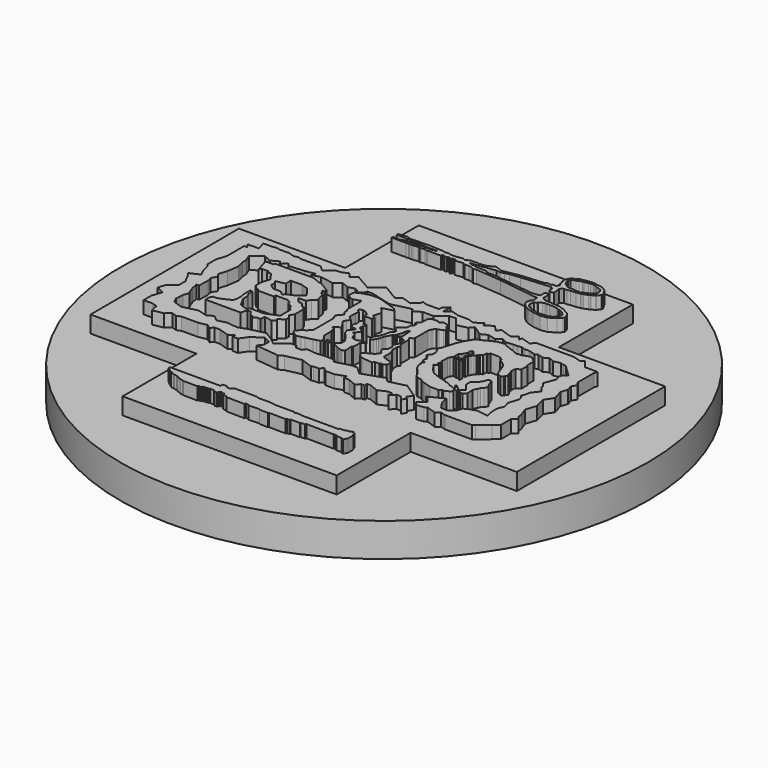
from build123d import *

# Parameters (mm, degrees)
F0_R      = 49.858379
F6_DEPTH  = 6.35
F7_DEPTH  = 9.525
F8_DEPTH  = 11.90625
F9_DEPTH  = 11.90625
F10_DEPTH = 12.7
F11_DEPTH = 11.90625


with BuildPart() as f6:
    # F0 (on Top) → F6 (new body)
    with BuildSketch(Plane.XY):
        Circle(F0_R)
    extrude(amount=F6_DEPTH)


with BuildPart() as f7:
    # F1 (on Top) → F7 (new body)
    with BuildSketch(Plane.XY):
        Polygon((-20.02955, 15.849587), (-40.108074, 15.849587), (-40.048331, -19.246355), (-20.02955, -19.246355), (-20.02955, -36.703989), (20.409739, -36.703989), (20.409739, -19.246355), (40.464565, -19.246355), (40.464565, 15.75925), (20.409739, 15.75925), (20.409739, 33.216882), (-20.02955, 33.216882), align=None)
    extrude(amount=F7_DEPTH)


with BuildPart() as f8:
    # F2 (on Top) → F8 (new body)
    with BuildSketch(Plane.XY):
        Polygon((-16.433874, 25.709664), (-17.835904, 25.579425), (-17.835904, 25.2719), (-16.195767, 25.2719), (-16.195767, 25.125459), (-15.902884, 25.125459), (-15.756443, 25.2719), (-15.258545, 25.2719), (-15.258545, 25.125459), (-12.915492, 25.125459), (-12.798339, 24.993662), (-12.564034, 24.993662), (-12.564034, 25.125459), (-12.271153, 24.993662), (-12.154, 24.993662), (-9.986675, 24.993662), (-9.986675, 24.861865), (-10.338133, 24.861865), (-11.158202, 24.700779), (-11.187481, 24.849837), (-11.410313, 24.806067), (-11.861118, 24.700779), (-11.885709, 24.806067), (-12.028731, 24.772663), (-12.564034, 24.772663), (-12.798339, 24.772663), (-12.798339, 24.539696), (-13.193729, 24.539696), (-13.193729, 24.700779), (-13.428035, 24.700779), (-14.936375, 24.583628), (-15.141392, 24.583628), (-15.127737, 24.407822), (-15.296901, 24.394683), (-15.311577, 24.583628), (-15.57797, 24.562938), (-15.565326, 24.400137), (-15.902884, 24.373919), (-15.919172, 24.583628), (-16.195767, 24.562146), (-16.342208, 24.393255), (-17.865192, 24.393255), (-17.843448, 24.113293), (-15.141392, 24.113293), (-14.667545, 24.150097), (-14.526341, 24.113293), (-14.116307, 24.113293), (-13.843986, 24.134444), (-12.97061, 24.202278), (-12.564034, 24.113293), (-12.388305, 24.202278), (-11.570846, 24.265769), (-11.559003, 24.113293), (-11.286682, 24.134444), (-11.158202, 24.144423), (-8.610132, 24.144423), (-8.610132, 24.422543), (-8.027881, 24.467766), (-8.007261, 24.202278), (-7.588662, 24.23479), (-7.603311, 24.423399), (-6.988415, 24.471158), (-6.962263, 24.134444), (-6.641035, 24.159394), (-6.665249, 24.471158), (-6.105187, 24.514657), (-6.080924, 24.202278), (-4.468711, 24.327497), (-4.099755, 24.113293), (-3.343826, 24.172005), (-2.811076, 24.113293), (-2.252911, 23.789241), (-1.727414, 23.939287), (3.192998, 23.514608), (10.895786, 22.474879), (10.949274, 21.786213), (10.96519, 21.581294), (10.949274, 21.405861), (10.632192, 21.171555), (10.652454, 20.910674), (10.574793, 20.776906), (10.467313, 20.591777), (10.485975, 20.351505), (10.734701, 19.853588), (11.481549, 19.209249), (12.128782, 18.833486), (13.297415, 18.491689), (14.805755, 18.31596), (16.035859, 18.491689), (17.265961, 19.238537), (17.881013, 19.853588), (17.98352, 20.07325), (18.027453, 20.190403), (17.851725, 20.761522), (17.558843, 21.288708), (16.089138, 22.141971), (15.918706, 22.108776), (15.625823, 22.225929), (15.391518, 22.343082), (15.21579, 22.372371), (14.234636, 22.474879), (13.868534, 22.474879), (13.341347, 22.606676), (12.579855, 22.474879), (12.521278, 22.577388), (12.462702, 22.694539), (12.117874, 22.667757), (11.642633, 23.104575), (11.642633, 24.327497), (11.293293, 24.530312), (10.96519, 24.504829), (10.789539, 24.202278), (10.850741, 23.414289), (10.646836, 23.48532), (10.527876, 23.280416), (10.383242, 23.280304), (9.308339, 23.196817), (1.169245, 24.202278), (0.023548, 24.113293), (0, 24.327497), (-0.247448, 24.471158), (-2.082889, 24.583628), (-2.602327, 24.642063), (-2.82191, 24.769546), (-3.171219, 24.742416), (-3.799292, 24.993662), (-2.897099, 25.063734), (-1.608619, 25.184086), (-1.315024, 25.319591), (-0.366485, 25.432512), (0.265875, 25.455097), (0.71756, 25.590602), (1.530593, 25.455097), (2.25329, 25.635771), (3.021155, 25.861613), (4.963401, 26.042288), (10.315872, 26.493972), (10.83531, 26.222961), (10.83531, 25.455097), (11.196658, 25.093749), (11.829017, 25.36476), (11.670928, 26.719816), (11.829017, 26.968243), (11.941939, 27.081164), (12.190365, 27.216669), (12.777556, 27.216669), (13.364747, 27.307006), (14.317393, 27.380997), (15.051953, 27.527051), (15.327323, 27.546043), (15.517234, 27.640998), (16.295865, 27.925864), (16.447794, 28.020818), (16.580731, 28.096782), (17.169453, 28.410135), (17.292894, 28.514585), (17.672716, 28.98936), (17.812764, 29.230586), (17.815148, 29.445145), (17.169453, 30.55612), (17.055508, 30.670067), (16.865598, 30.765023), (16.675688, 30.89796), (16.371831, 31.078374), (16.229399, 31.125851), (15.99201, 31.182826), (15.8021, 31.277779), (15.507739, 31.230303), (15.194387, 31.277779), (14.87154, 31.353746), (14.738603, 31.429708), (13.846025, 31.382229), (13.618132, 31.325258), (13.295284, 31.306267), (13.067393, 31.306267), (12.725554, 31.17333), (12.393211, 31.135347), (12.165319, 31.116355), (11.52912, 30.717544), (11.206272, 30.584607), (11.073335, 30.508643), (10.731497, 30.119328), (10.560577, 29.767994), (10.446631, 29.52111), (10.456127, 29.359687), (10.522595, 29.217254), (10.560577, 29.008353), (10.522595, 28.818442), (10.722001, 28.552568), (10.78847, 27.954351), (11.063839, 27.726458), (11.092326, 27.640998), (10.674523, 27.194709), (10.066811, 27.223196), (9.990847, 27.080763), (9.126755, 27.080763), (8.936845, 26.900349), (4.28194, 26.493972), (4.268707, 26.471179), (4.154336, 26.471179), (4.239479, 26.488147), (4.268707, 26.493972), (1.362524, 25.958089), (0, 26.471179), (-1.234666, 25.822584), (-2.589722, 25.641909), (-2.973654, 25.732247), (-3.69635, 25.641909), (-4.238373, 25.687078), (-4.96107, 25.2719), (-5.503092, 25.506405), (-6.451631, 25.32573), (-6.948485, 25.280563), (-7.671181, 25.280563), (-8.009945, 25.461236), (-8.303541, 25.461236), (-8.484215, 25.416069), (-8.9359, 25.3709), (-9.297248, 25.506405), (-11.917023, 25.641909), (-15.756443, 25.506405), (-15.756443, 25.641909), (-16.343538, 25.822585), align=None)
        Polygon((11.308922, 20.474901), (11.334626, 20.62683), (11.46085, 21.016147), (11.726725, 21.291517), (11.84067, 21.177569), (11.973608, 21.405462), (12.486366, 21.7473), (12.913664, 21.851752), (13.340962, 21.823265), (13.701791, 21.899229), (15.221073, 21.7473), (15.373002, 21.671336), (15.714839, 21.509914), (15.942732, 21.538399), (16.246589, 21.405462), (16.626408, 21.196561), (17.272104, 20.550866), (17.234122, 20.303983), (17.158158, 20.038109), (17.082194, 19.810217), (16.892284, 19.572828), (16.664391, 19.344937), (16.474482, 19.183513), (16.132642, 19.031584), (15.809795, 18.898647), (15.410984, 18.85117), (13.701791, 18.822683), (13.473899, 18.974612), (12.951646, 19.031584), (12.799717, 19.107549), (12.448383, 19.12654), (12.220492, 19.344937), (11.992599, 19.335441), (11.726725, 19.610811), (11.46085, 19.876685), (11.346905, 20.190038), align=None, mode=Mode.SUBTRACT)
        Polygon((11.447547, 28.505998), (11.334626, 28.867347), (11.086199, 29.093189), (11.063615, 29.590042), (11.244289, 29.996559), (11.5153, 30.222403), (11.966985, 30.335324), (12.41867, 30.538581), (12.870356, 30.719256), (13.186535, 30.719256), (13.9544, 30.854762), (14.247996, 30.945098), (14.790018, 30.967683), (15.241703, 30.854762), (15.670804, 30.62892), (16.122488, 30.538581), (16.596759, 30.312739), (16.70968, 30.177234), (16.890354, 29.883638), (16.935522, 29.341616), (16.935522, 29.138358), (16.212827, 28.46083), (15.580467, 28.234987), (14.677096, 27.805885), (14.247996, 27.82847), (13.502715, 27.918808), (12.870356, 27.918808), (12.237996, 27.963975), (11.899232, 28.325325), align=None, mode=Mode.SUBTRACT)
        Polygon((4.268707, 26.471179), (4.239479, 26.488147), (4.154336, 26.471179), align=None)
    extrude(amount=F8_DEPTH)


with BuildPart() as f9:
    # F3 (on Top) → F9 (new body)
    with BuildSketch(Plane.XY):
        Polygon((15.541076, -14.337068), (16.231243, -13.23464), (13.49694, -11.400259), (10.357922, -12.17351), (9.599395, -11.365294), (5.508177, -12.771131), (4.061735, -11.435826), (2.861853, -11.491846), (0.163066, -12.215619), (-0.084618, -11.639052), (-2.136275, -11.580575), (-3.350505, -11.743323), (-5.380643, -11.524756), (-5.793308, -12.17554), (-6.932782, -12.185353), (-7.333003, -11.533955), (-8.319941, -11.618599), (-10.373848, -13.189639), (-11.551087, -12.270812), (-13.247687, -11.240174), (-16.392531, -12.000311), (-17.763445, -12.522287), (-19.78641, -12.250359), (-21.522801, -12.66888), (-22.646803, -11.757208), (-23.705475, -12.375483), (-25.515562, -11.846758), (-28.312068, -12.522699), (-30.044697, -11.957977), (-30.561585, -10.964933), (-30.443441, -9.407027), (-30.103631, -8.364454), (-30.443441, -7.666849), (-30.754559, -6.755792), (-30.984024, -5.596116), (-30.490279, -5.596116), (-30.430645, -3.539695), (-30.635292, -2.642949), (-30.021263, -1.631439), (-30.572632, -0.967226), (-30.09126, 0.597886), (-29.759114, 2.786527), (-30.096957, 4.184254), (-30.141896, 5.059531), (-30.661806, 6.433273), (-28.743066, 7.805173), (-27.309844, 7.177899), (-25.91024, 7.913328), (-25.517194, 7.208566), (-24.597371, 8.196861), (-24.015265, 7.495622), (-23.567859, 7.598463), (-21.267392, 7.778178), (-19.38564, 8.068504), (-19.699005, 7.350045), (-18.122323, 7.790033), (-15.566504, 7.324705), (-14.4264, 8.271117), (-13.063719, 7.72259), (-11.803495, 8.027198), (-10.622106, 7.324705), (-9.950434, 8.104072), (-9.85001, 8.420591), (-8.983889, 8.420591), (-7.777958, 8.138008), (-6.422516, 7.738501), (-4.880876, 7.324705), (-1.154059, 8.225511), (-0.807075, 7.581268), (0.51475, 8.420591), (2.629987, 8.420591), (4.378679, 9.872197), (5.685033, 9.913905), (7.003484, 8.196861), (8.975991, 8.677515), (9.624555, 9.455792), (11.518341, 8.151895), (12.736719, 8.748702), (14.259041, 8.381088), (15.165177, 9.074194), (16.119275, 8.511325), (17.468669, 8.65199), (18.306097, 8.65199), (19.039265, 8.754196), (19.803876, 8.504984), (20.464227, 8.579201), (21.92614, 8.16538), (22.395067, 8.42831), (23.484327, 8.064582), (24.368944, 8.597598), (25.390623, 8.1343), (26.663729, 8.420591), (27.350156, 8.196861), (27.829278, 8.132458), (28.654047, 7.324705), (29.988183, 6.049455), (29.125795, 5.147246), (29.427906, 3.897349), (28.612072, 1.759823), (29.253501, 0.987119), (29.249353, 0.553058), (30.085657, -0.482922), (29.040208, -1.809229), (28.914889, -2.452422), (28.612072, -3.381499), (28.89562, -3.69125), (29.136132, -4.32118), (28.914889, -5.160678), (28.72234, -5.786722), (28.515447, -6.519494), (28.76313, -7.096061), (28.882824, -7.818405), (28.605321, -8.270048), (28.455811, -8.575914), (28.390128, -9.870941), (28.714469, -11.490029), (26.592204, -11.150426), (25.175227, -11.611883), (24.471838, -12.006278), (24.040677, -13.19785), (22.86119, -13.908538), (21.796471, -13.765418), (20.938648, -12.522699), (20.543704, -10.989309), (17.785773, -12.392295), (18.185866, -12.522699), (19.039265, -13.550755), (17.72814, -14.639133), (18.329738, -15.363853), (19.703675, -15.222576), (20.1954, -14.944444), (21.992819, -15.530284), (22.739245, -14.944444), (23.675973, -15.249755), (25.514688, -15.249755), (26.593752, -15.249755), (28.815913, -15.249755), (29.183709, -14.944444), (31.058991, -13.387754), (32.101088, -12.522699), (32.101088, -10.198936), (32.972308, -9.475728), (32.466855, -8.866829), (32.466855, -8.28525), (31.816533, -6.48712), (32.466855, -4.491862), (31.958145, -2.387227), (32.967567, -0.815985), (32.382443, 1.145472), (32.812364, 2.464516), (32.466855, 3.506043), (33.017356, 4.392743), (32.466855, 5.147246), (32.466855, 6.748489), (32.466855, 7.324705), (32.466855, 8.980307), (32.6658, 9.590693), (30.313495, 9.590693), (29.043857, 11.120175), (28.460935, 10.660336), (26.96351, 11.148398), (25.685847, 11.148398), (22.448651, 11.148398), (20.943699, 11.148398), (19.942414, 11.148398), (19.080502, 10.423718), (17.333956, 10.992976), (17.148415, 10.423718), (16.577229, 11.111803), (15.552681, 10.423718), (13.22639, 11.181935), (12.678524, 10.423718), (11.7061, 11.595158), (10.23688, 10.714551), (9.882724, 11.30543), (8.456965, 10.423718), (7.255669, 10.815261), (5.280057, 10.815261), (3.863648, 11.276916), (2.835835, 10.423718), (2.835835, 12.172948), (1.866393, 11.368205), (1.866393, 10.651588), (-0.611152, 10.651588), (-1.434412, 10.9366), (-1.434412, 10.423718), (-2.600434, 9.455792), (-4.590951, 10.104568), (-5.372506, 9.455792), (-5.644619, 9.455792), (-8.455328, 11.162737), (-10.731962, 9.455792), (-13.851384, 11.25844), (-14.856941, 10.423718), (-15.590066, 11.306885), (-16.91794, 10.761765), (-17.708715, 10.761765), (-19.281968, 9.455792), (-20.33649, 10.423718), (-23.144646, 10.423718), (-24.085648, 10.423718), (-24.731526, 10.634231), (-25.429917, 10.457011), (-26.495485, 10.804316), (-28.408107, 10.804316), (-28.965855, 10.986105), (-29.875016, 10.835014), (-31.479266, 10.835014), (-30.984024, 9.167867), (-33.160505, 9.167867), (-32.540184, 8.420591), (-33.160505, 8.420591), (-33.160505, 7.324705), (-33.160505, 5.147246), (-33.160505, 4.298013), (-33.739358, 2.522029), (-33.739358, 0.500182), (-33.324152, 0), (-32.973487, -1.467663), (-32.427941, -2.673615), (-34.226036, -3.487034), (-33.892103, -3.889311), (-32.910366, -5.768674), (-32.910366, -7.258923), (-34.407249, -8.5015), (-34.862373, -9.89787), (-33.324152, -10.606711), (-33.948638, -12.522699), (-33.948638, -14.337068), (-33.324152, -14.337068), (-32.194501, -14.337068), (-31.267735, -14.639133), (-30.984024, -16.123567), (-28.981453, -15.740827), (-28.022083, -14.944444), (-27.085355, -15.249755), (-26.26832, -14.944444), (-24.085648, -14.944444), (-23.215378, -14.944444), (-21.600553, -14.639133), (-20.805415, -15.249755), (-20.33649, -14.639133), (-19.281968, -14.639133), (-17.408513, -15.249755), (-16.435921, -14.639133), (-16.435921, -15.249755), (-15.424439, -15.249755), (-14.410706, -13.787872), (-12.50631, -12.522699), (-11.187858, -13.19945), (-11.187858, -14.337068), (-11.892372, -15.249755), (-7.519853, -15.746364), (-6.632213, -15.249755), (-3.69179, -14.639133), (-1.513266, -15.412902), (-1.090403, -15.249755), (-0.127237, -15.249755), (0.411525, -14.639133), (1.103592, -15.249755), (2.835835, -15.249755), (4.621312, -14.639133), (4.621312, -15.249755), (5.550867, -15.249755), (7.197031, -15.931819), (7.893248, -15.249755), (8.515833, -15.249755), (8.515833, -14.639133), (9.16901, -14.639133), (10.854064, -15.336855), (12.345796, -14.639133), (13.225138, -14.639133), (13.225138, -15.438268), (14.049345, -14.639133), (14.956556, -14.639133), (15.541076, -15.409844), (16.023574, -14.639133), align=None)
    extrude(amount=F9_DEPTH)


with BuildPart() as f10:
    # F4 (on Top) → F10 (new body)
    with BuildSketch(Plane.XY):
        Polygon((-23.623057, 2.8128), (-22.508506, 1.315123), (-22.787143, 0.51404), (-22.996122, -0.321872), (-22.996122, -0.739829), (-22.996122, -1.575741), (-22.508506, -2.063357), (-22.090549, -2.202676), (-21.672593, -2.620632), (-18.71207, -2.620632), (-18.71207, -2.202676), (-17.075073, -2.202676), (-16.482968, -2.202676), (-15.821205, -2.481313), (-15.681885, -2.968929), (-15.124611, -3.317226), (-14.636995, -3.665523), (-14.636995, -3.94416), (-14.149379, -4.431776), (-14.149379, -6.800196), (-16.448138, -7.775427), (-17.910987, -7.775427), (-18.990707, -7.775427), (-19.443493, -8.263042), (-20.836681, -7.775427), (-21.811912, -6.068772), (-21.811912, -5.058711), (-22.195039, -4.222798), (-22.195039, -3.317226), (-22.647824, -3.317226), (-22.647824, -3.874501), (-22.647824, -4.849732), (-22.508506, -5.372178), (-22.508506, -5.929453), (-22.508506, -6.626047), (-22.787143, -7.42713), (-23.065781, -7.42713), (-24.18033, -7.984404), (-25.016245, -8.263042), (-25.678007, -8.263042), (-25.991475, -8.855147), (-25.991475, -9.69106), (-19.373834, -9.69106), (-18.990707, -8.54168), (-18.328942, -8.54168), (-17.702008, -9.451784), (-17.300989, -9.451784), (-17.144732, -9.795549), (-16.378479, -9.447252), (-15.750427, -9.447252), (-15.750427, -8.895811), (-15.681885, -8.54168), (-14.149379, -8.838294), (-13.537895, -8.404338), (-13.835912, -7.984404), (-12.756191, -7.218152), (-12.756191, -6.521558), (-13.243807, -5.894623), (-12.756191, -5.12837), (-12.756191, -3.317226), (-13.104488, -2.550973), (-13.452786, -2.550973), (-14.149379, -1.74989), (-14.706654, -1.74989), (-15.124611, -1.366763), (-15.612227, -0.739829), (-14.149379, -0.739829), (-13.690762, 0), (-12.895511, 0.61853), (-13.139319, 0.931997), (-13.452786, 2.429674), (-13.835912, 2.429674), (-14.288698, 3.370075), (-13.870742, 3.370075), (-13.870742, 3.788032), (-15.472908, 4.763263), (-15.960524, 5.041901), (-16.378479, 5.041901), (-17.075073, 5.355368), (-17.841326, 5.668835), (-25.155563, 5.668835), (-25.155563, 5.363727), (-26.374603, 5.363727), (-26.688069, 5.250879), (-26.374603, 4.380137), (-25.921816, 2.743141), (-25.573518, 3.161097), (-24.319651, 3.161097), (-24.319651, 2.8128), align=None)
        Polygon((-21.324296, 0.931997), (-21.672593, 1.315123), (-19.931108, 1.69825), (-19.931108, 2.882459), (-18.746899, 2.882459), (-17.841326, 2.882459), (-16.482968, 2.429674), (-15.124611, 0.61853), (-16.482968, -0.400238), (-17.876156, -1.018466), (-18.189624, -1.366763), (-18.886216, -0.739829), (-20.383894, -0.739829), (-21.324296, 0), align=None, mode=Mode.SUBTRACT)
        Polygon((-4.462039, 1.516275), (-4.327406, 0.827507), (-2.969048, 0.827507), (-2.899388, 1.349953), (-3.456663, 1.733079), (-3.296446, 2.213729), (-3.038707, 3.195927), (-3.352174, 3.613883), (-4.083598, 4.380137), (-1.993816, 4.972241), (-2.620751, 5.494686), (-3.707437, 5.856916), (-5.191182, 6.351499), (-5.933054, 6.59879), (-6.869974, 6.678896), (-7.984524, 6.609237), (-9.238392, 6.260939), (-10.213624, 5.773324), (-10.352943, 5.250879), (-10.352943, 4.658774), (-10.074305, 4.380137), (-9.656349, 4.101499), (-9.133903, 3.927349), (-8.123842, 4.240817), (-7.705886, 4.380137), (-7.705886, 1.872398), (-7.705886, 0.978309), (-7.475142, 0.553631), (-7.489786, 0.055732), (-7.240837, -0.266438), (-7.006531, -0.676472), (-7.724091, -1.496541), (-7.811956, -1.774778), (-7.724091, -2.053016), (-7.724091, -2.316609), (-7.489786, -2.46305), (-7.489786, -7.307445), (-8.123842, -7.775427), (-8.008828, -7.999502), (-8.787392, -8.34553), (-9.13342, -8.778065), (-9.652462, -9.210601), (-9.306435, -9.729643), (-8.441363, -10.335192), (-7.489786, -10.205432), (-6.970744, -9.989164), (-5.673138, -9.729643), (-5.154096, -9.556629), (-4.462039, -9.383614), (-4.375532, -8.864572), (-4.764813, -8.172516), (-5.154096, -7.775427), (-5.154096, -5.923332), (-5.32711, -5.577304), (-5.500124, -4.971755), (-6.019166, -4.841994), (-4.764813, -4.106684), (-5.154096, -3.414628), (-5.500124, -2.982093), (-5.846152, -2.549557), (-5.586631, -1.900754), (-5.154096, -1.424966), (-5.977439, -0.676472), (-5.932659, 0.694457), (-5.846152, 1.343261), (-6.278687, 1.689288), (-6.365194, 1.948809), (-5.759645, 2.251585), (-5.154096, 2.035317), align=None)
        Polygon((-3.496601, -0.487271), (-3.933061, -0.739829), (-3.751203, -1.905769), (-4.005805, -1.887583), (-3.969433, -2.905992), (-3.569344, -2.996921), (-3.351114, -3.106036), (-2.987396, -3.106036), (-2.696422, -3.317226), (-3.532972, -4.288118), (-3.423857, -4.706393), (-3.314742, -5.106482), (-2.696422, -5.68843), (-2.259962, -6.306749), (-1.678014, -7.143299), (-1.659828, -7.943477), (-1.896244, -8.161708), (-2.259962, -8.489053), (-2.678237, -8.743656), (-2.460006, -8.743656), (-2.041731, -9.107373), (-1.60527, -9.25286), (-1.314297, -9.398347), (-0.877836, -9.616577), (-0.368631, -9.762064), (-0.132215, -9.725693), (0.28606, -9.580205), (0.213316, -7.870734), (0.431547, -7.870734), (0.50429, -6.161262), (1.12261, -5.761173), (1.049866, -5.5975), (0.613406, -5.5975), (0.28606, -5.579314), (0.013272, -5.724801), (-0.368631, -5.833916), (-0.714163, -5.90666), (-1.205181, -5.797545), (-1.532527, -5.615686), (-1.641642, -5.251969), (-1.750757, -4.779136), (-2.041731, -4.45179), (-2.405449, -4.342675), (-1.532527, -3.317226), (-2.005359, -2.815062), (-2.187218, -2.815062), (-2.605493, -2.451345), (-2.587307, -1.960326), (-2.387263, -1.960326), (-2.405449, -1.141963), (-2.987396, -1.232892), (-3.169255, -0.778245), align=None)
        Polygon((-3.865736, -8.54168), (-3.933061, -8.743656), (-3.933061, -8.816399), (-3.787575, -9.071001), (-3.351114, -9.107373), (-3.06014, -8.816399), (-2.969211, -8.743656), (-3.205627, -8.63454), (-3.551158, -8.50724), align=None)
        Polygon((3.403392, 0.827507), (3.891008, 1.315123), (4.049098, -0.696967), (3.348986, -1.306742), (3.597412, -1.397079), (3.891008, -1.103484), (4.049098, -1.103484), (4.342693, -1.306742), (4.669482, -1.395439), (4.975053, -1.555169), (5.042805, -1.781011), (5.087974, -2.955393), (4.9073, -3.181236), (4.862131, -3.294157), (4.613705, -3.813595), (4.952468, -4.129775), (4.9073, -5.078314), (4.681457, -5.394494), (4.229772, -5.891347), (4.320109, -6.004269), (4.500783, -6.27528), (4.681457, -6.568875), (4.952468, -6.794718), (4.681457, -7.268987), (4.410446, -7.607752), (4.229772, -7.720673), (3.552244, -8.059436), (3.100559, -8.330448), (2.694042, -8.624043), (2.739211, -8.895054), (2.784379, -9.188649), (2.965053, -9.369324), (3.258649, -9.595166), (3.68775, -9.821009), (5.720333, -10.001684), (6.036513, -9.640335), (6.849546, -9.685503), (7.03022, -9.437077), (7.210894, -9.50483), (7.3464, -9.527413), (7.843254, -9.233818), (7.933591, -9.007975), (8.023928, -8.533706), (7.933591, -8.24011), (7.594827, -8.059436), (7.391569, -8.059436), (6.939883, -8.014268), (6.668872, -7.788425), (6.307524, -7.720673), (5.991344, -7.472245), (5.96876, -6.026853), (6.036513, -5.733258), (5.765501, -5.484831), (5.765501, -5.304156), (5.720333, -5.078314), (5.584828, -4.987977), (5.562244, -3.881348), (5.946176, -3.497416), (5.833254, -3.384494), (5.65258, -3.226405), (5.471906, -2.910225), (5.471906, -0.967978), (5.381569, -0.877641), (5.155727, -0.561461), (5.65258, -0.222698), (5.833254, 0), (5.833254, 3.097189), (6.013928, 3.571458), (6.149434, 3.865054), (6.555951, 4.226402), (6.917299, 4.316739), (7.459322, 4.655503), (7.911007, 4.723256), (7.865838, 4.949098), (7.685164, 5.129773), (7.459322, 5.400784), (7.143142, 5.852469), (7.18831, 6.168649), (7.052805, 6.258986), (6.736625, 6.349323), (6.375276, 6.43966), (6.059097, 6.484828), (5.742917, 6.349323), (5.471906, 6.033143), (5.042805, 6.349323), (3.936176, 6.304154), (3.574828, 6.100896), (3.496676, 5.800055), (3.439323, 4.452245), (2.8973, 3.955391), (2.8973, 3.661796), (3.258648, 3.639211), (3.21348, 3.052021), (2.8973, 2.826178), (2.806963, 1.855055), (2.671458, 1.787302), (2.084267, 1.380785), (1.587413, 1.019437), (1.632581, 0.567752), (1.99393, 0.296741), (2.287525, -0.042023), (2.264941, -0.29045), (2.084267, -0.471124), (1.813256, -0.696967), (1.768087, -0.877641), (1.564829, -1.848764), (1.451907, -2.277865), (1.316402, -2.503708), (1.180896, -2.842472), (1.045391, -3.000562), (0.729211, -3.497415), (0.638874, -3.83618), (0.638874, -4.039438), (0.864717, -4.220112), (0.909885, -4.468539), (1.180896, -4.355617), (1.36157, -4.174944), (1.564829, -3.768427), (1.745503, -3.452247), (1.926177, -2.865056), (2.016514, -2.503708), (2.129435, -2.277865), (2.648873, -1.284158), (2.919884, -1.193821), (3.030547, -0.952169), (3.37157, 0.070898), align=None)
        Polygon((23.664389, -4.866651), (23.215648, -3.632608), (22.654718, -3.632608), (22.31816, -4.445955), (21.981603, -4.978837), (21.53286, -5.483673), (20.971932, -5.932416), (20.971932, -6.437252), (20.971932, -6.829903), (21.645047, -7.671296), (22.09379, -8.232225), (21.588953, -8.624874), (21.364581, -8.905339), (21.645047, -9.241897), (21.897465, -9.466268), (22.346208, -9.466268), (22.907136, -8.933386), (22.822997, -7.615203), (23.159554, -6.885995), (23.355879, -6.465299), (23.720482, -6.100695), (24.113134, -5.455627), align=None)
        Polygon((21.084117, -8.793153), (20.074395, -7.948938), (19.971887, -8.168599), (20.235481, -8.417549), (20.41121, -8.651854), (20.484429, -8.944735), (20.41121, -9.076532), (20.294057, -8.988667), (19.708293, -8.695786), (19.298259, -8.607921), (18.902868, -8.344328), (18.419614, -8.13931), (18.126732, -8.124666), (17.775275, -7.875717), (17.394528, -7.846429), (17.160224, -7.758564), (16.808765, -7.641412), (16.369443, -7.524259), (16.017985, -7.377818), (15.842255, -7.319242), (15.373645, -7.143513), (14.96361, -6.95314), (14.685373, -6.660258), (14.202118, -6.250224), (13.645643, -5.415511), (13.469914, -5.239782), (13.30883, -4.917613), (13.923881, -4.47829), (13.938525, -4.331849), (13.425982, -4.331849), (13.543135, -4.009679), (13.748152, -3.907171), (13.748152, -3.511781), (13.513846, -3.379984), (13.571621, -1.94921), (13.647585, -1.664345), (13.733045, -1.512417), (13.818504, -1.417462), (14.065388, -1.189569), (14.226812, -1.189569), (14.388235, -1.265534), (14.692091, -1.37948), (15.014939, -1.20856), (15.166868, -1.341498), (15.527697, -1.645354), (15.546688, -0.895208), (15.432741, -0.74328), (15.128885, -1.01865), (14.825029, -1.047137), (14.426217, -1.075623), (14.29328, -1.01865), (14.027406, -0.857226), (14.027406, 0.044847), (14.302776, 0.291731), (14.407226, 0.396181), (14.540164, 0.633569), (14.882002, 1.184309), (14.768056, 1.507156), (14.86301, 1.811013), (15.052921, 2.019914), (15.252328, 2.038905), (15.698615, 1.469174), (15.736599, 1.184309), (15.556184, 1.146327), (15.480219, 0.975407), (15.432741, 0.690542), (15.318795, 0.614578), (15.20485, 0.358199), (15.109895, 0.130307), (15.280814, -0.050108), (15.337787, -0.259009), (15.594166, -0.353964), (15.58467, 0.291731), (15.717607, 0.443659), (15.850544, 0.690542), (16.078437, 1.098849), (16.382294, 1.374219), (16.410779, 1.58312), (16.600691, 1.545138), (16.686149, 1.75404), (17.094458, 2.000923), (17.132439, 2.836528), (17.265376, 2.836528), (17.360331, 2.6846), (17.493268, 2.87451), (17.559737, 3.007447), (17.635701, 3.140385), (19.335398, 3.102402), (19.420857, 2.988456), (19.563289, 2.988456), (19.791182, 2.836528), (20.161506, 2.570654), (20.189993, 2.13386), (20.645777, 1.981932), (20.949634, 1.773031), (21.177527, 1.58312), (21.386428, 1.336237), (21.709275, 0.766506), (21.728266, 0.576596), (21.918176, 0.234758), (21.956159, -0.012126), (22.013132, -0.249514), (22.203041, -0.515388), (22.297997, -0.847731), (22.468915, -1.227551), (22.981673, -1.474435), (23.30452, -1.645354), (23.532413, -1.512417), (23.760306, -1.360489), (23.779297, -1.20856), (23.997694, -0.999659), (24.102144, -0.771767), (23.83627, -0.63883), (23.912234, -0.372955), (23.760306, -0.145063), (23.64636, 0.367695), (23.494432, 0.586092), (23.541909, 0.728524), (23.513421, 1.184309), (23.627369, 1.507156), (24.348814, 2.051169), (24.395982, 3.324713), (24.207309, 3.466218), (24.171932, 5.046356), (23.747418, 5.506247), (23.31111, 5.848217), (22.792259, 6.013306), (22.745091, 5.895386), (22.238031, 5.848217), (22.179071, 5.706713), (21.801725, 5.730296), (21.565882, 5.506247), (21.094199, 5.565207), (20.635374, 5.454439), (20.102492, 5.650764), (19.513516, 5.959275), (18.840402, 6.099507), (18.167287, 6.436065), (17.550265, 6.688483), (17.43808, 6.856761), (16.147943, 6.688483), (15.811386, 6.576297), (14.801714, 6.099507), (14.184692, 5.734904), (13.792042, 5.566625), (13.118927, 5.342254), (12.726277, 4.781325), (12.333627, 4.164303), (11.997069, 3.603375), (11.884884, 3.32291), (11.492234, 2.369331), (11.380048, 1.808402), (11.043491, 0.79873), (10.819119, 0.069523), (10.594748, -0.37922), (10.819119, -1.192567), (11.099583, -1.444985), (11.099583, -2.51075), (10.538654, -3.099725), (10.875212, -3.352143), (11.323955, -4.081351), (11.099583, -4.24963), (11.211769, -4.810559), (11.772698, -5.119069), (11.436141, -5.567812), (11.660513, -5.932416), (11.604419, -6.353113), (12.025116, -7.222553), (12.557998, -7.839574), (13.343299, -8.73706), (13.455485, -9.185803), (14.016413, -9.634546), (14.801714, -9.69064), (15.054132, -9.915011), (15.6992, -10.251569), (17.297847, -10.756404), (17.970962, -10.756404), (18.840402, -10.756404), (19.289145, -10.391801), (19.541563, -10.475939), (19.850073, -10.419847), (20.467095, -10.08329), (20.859746, -9.69064), (20.635374, -9.354082), (21.084117, -9.241897), align=None)
    extrude(amount=F10_DEPTH)


with BuildPart() as f11:
    # F5 (on Top) → F11 (new body)
    with BuildSketch(Plane.XY):
        Polygon((-16.128648, -28.643332), (-17.506287, -28.643332), (-17.544765, -28.914364), (-16.624413, -29.688469), (-16.291358, -29.692996), (-16.254299, -29.950908), (-15.801138, -29.957067), (-15.511931, -30.090407), (-15.173839, -30.095002), (-14.810056, -30.262725), (-14.696699, -30.429507), (-14.392253, -30.433645), (-14.297734, -30.579634), (-13.860561, -30.585576), (-13.860561, -30.732086), (-13.462081, -30.737503), (-13.252684, -30.834045), (-10.575057, -30.870439), (-10.44372, -30.585576), (-10.29093, -30.734782), (-10.090786, -30.737503), (-9.929363, -30.528601), (-9.663488, -30.528601), (-9.568533, -30.42415), (-9.416604, -30.452637), (-9.255181, -30.471629), (-8.998802, -30.357681), (-8.657762, -30.443143), (-8.657762, -30.302472), (-8.315213, -30.307128), (-7.859341, -30.313324), (-7.726404, -30.443143), (-7.555277, -30.579771), (-7.128187, -30.585576), (-6.985864, -30.47163), (-6.985864, -30.242372), (-6.748591, -30.245597), (-6.748591, -30.079858), (-6.567951, -30.082313), (-6.378118, -30.239928), (-5.961091, -30.245597), (-5.961091, -30.581821), (-5.684868, -30.585576), (-5.579809, -30.683197), (-5.077414, -30.690026), (-5.077414, -30.898907), (-1.582807, -30.946406), (-1.582807, -30.671036), (-0.848127, -30.768255), (-0.842157, -30.93691), (1.30412, -30.860946), (1.30412, -30.991454), (2.880084, -31.012874), (3.012951, -30.894576), (6.127549, -30.93691), (6.240561, -30.768255), (6.772541, -30.775486), (6.772541, -30.561303), (8.558401, -30.585576), (8.59692, -30.451614), (9.464985, -30.463412), (9.509993, -30.245597), (14.49292, -30.313324), (14.708417, -30.239441), (15.022429, -30.325638), (15.176356, -30.245597), (15.391854, -30.319482), (15.391854, -30.461095), (16.167644, -30.461095), (16.167644, -30.534979), (16.549384, -30.534979), (16.629426, -30.596551), (16.697153, -30.793577), (16.795667, -30.719692), (16.881866, -30.498037), (17.005008, -30.350268), (17.054265, -30.214811), (17.128149, -30.116297), (17.192438, -29.974686), (17.192438, -29.061735), (17.192438, -28.755141), (17.003765, -28.542884), (17.003765, -28.259873), (16.779715, -28.047616), (16.437745, -27.835358), (16.437745, -27.988655), (16.072191, -27.988655), (16.072191, -28.118368), (15.376459, -28.118368), (15.376459, -28.236289), (14.92836, -28.330626), (14.220835, -28.330626), (14.220835, -28.542884), (7.216342, -28.542884), (7.087975, -28.424526), (6.171647, -28.424526), (5.936177, -28.62075), (5.710335, -28.349739), (4.106852, -28.349739), (2.0291, -28.349739), (0.832134, -28.169064), (-1.335955, -28.169064), (-1.674719, -27.988389), (-5.739886, -27.988389), (-6.462583, -28.440075), (-6.936852, -28.440075), (-7.185279, -28.123895), (-7.998313, -28.123895), (-7.998313, -28.643332), (-15.970558, -28.643332), align=None)
    extrude(amount=F11_DEPTH)


solid = Compound([f6.part, f7.part, f8.part, f9.part, f10.part, f11.part])
